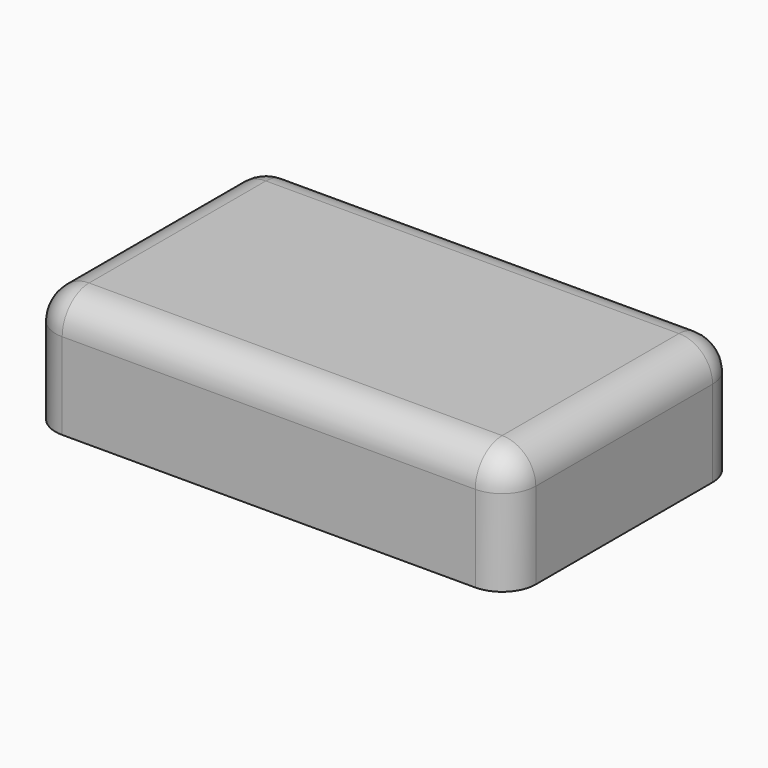
from build123d import *

# Parameters (mm, degrees)
F0_W     = 100
F0_H     = 60
F1_DEPTH = 25
F2_R     = 7
F3_T     = -1


with BuildPart() as f1:
    # F0 (on Top) → F1 (new body)
    with BuildSketch(Plane.XY):
        Rectangle(F0_W, F0_H)
    extrude(amount=F1_DEPTH)

    # F2
    f2_edges = [f1.edges().sort_by_distance(p)[0] for p in [
        (0, -30, 25),
        (-50, 0, 25),
        (-50, -30, 12.5),
        (-50, 30, 12.5),
        (0, 30, 25),
        (50, 30, 12.5),
        (50, 0, 25),
        (50, -30, 12.5),
    ]]
    fillet(f2_edges, radius=F2_R)

    # F3
    f3_openings = [f1.faces().sort_by_distance(p)[0] for p in [
        (0, 0, 0),
    ]]
    offset(amount=F3_T, openings=f3_openings)


solid = f1.part
